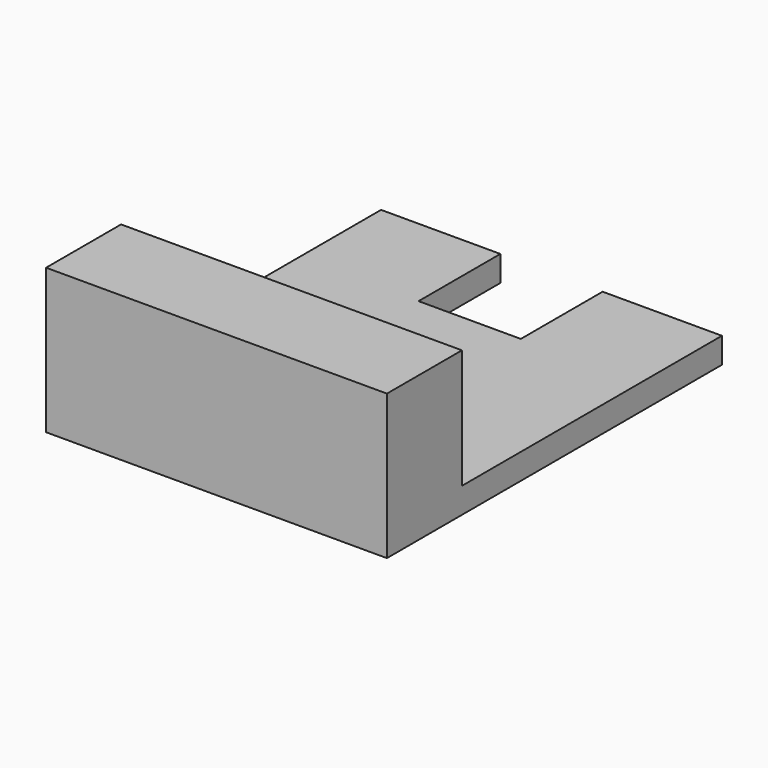
from build123d import *

# Parameters (mm, degrees)
F0_W     = 55
F0_H     = 70
F1_DEPTH = 100
F2_W     = 200
F2_H     = 190.7
F2_H_2   = 55
F3_DEPTH = 15
F4_W     = 60
F4_H     = 60
F5_DEPTH = 25


with BuildPart() as f1:
    # F0 (on Right) → F1 (new body, symmetric)
    with BuildSketch(Plane.YZ):
        Rectangle(F0_W, F0_H)
    extrude(amount=F1_DEPTH, both=True)

    # F2 (on face) → F3 (join)
    with BuildSketch(Plane(origin=(0, 0, -35), x_dir=(1, 0, 0), z_dir=(0, 0, -1))):
        with Locations((0, -122.85)):
            Rectangle(F2_W, F2_H)
        Rectangle(F2_W, F2_H_2)
    extrude(amount=F3_DEPTH)

    # F4 (on face) → F5 (cut)
    with BuildSketch(Plane.XY.offset(-35)):
        with Locations((0, 188.2)):
            Rectangle(F4_W, F4_H)
    extrude(amount=-F5_DEPTH, mode=Mode.SUBTRACT)


solid = f1.part
